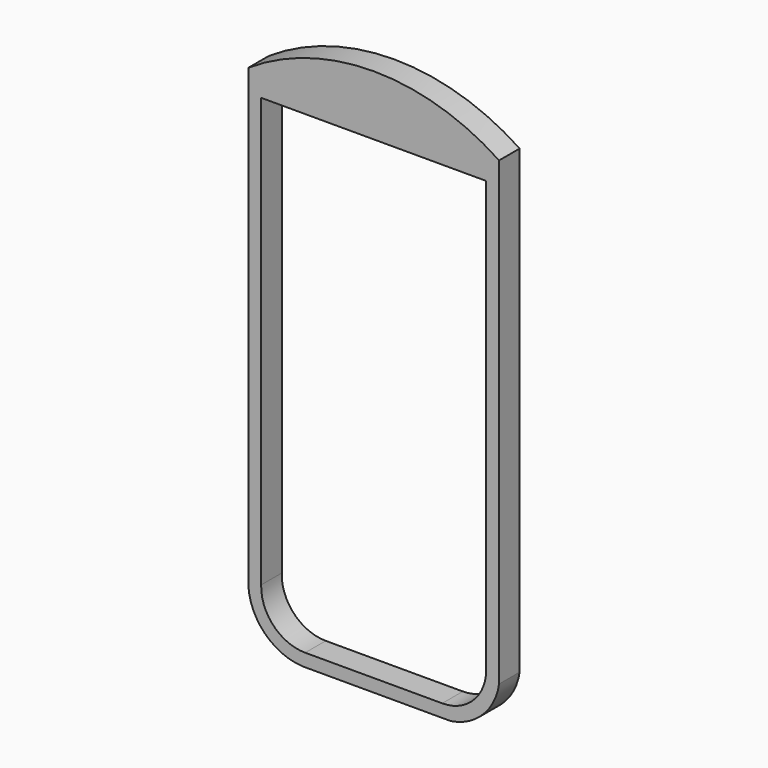
from build123d import *

# Parameters (mm, degrees)
F1_DEPTH = 6


with BuildPart() as f1:
    # F0 (on Front) → F1 (new body)
    with BuildSketch(Plane.XZ):
        with BuildLine():
            Line((9.351167, -51.003552), (9.351167, 56.502457))
            ThreePointArc((9.351167, 56.502457), (-19.898833, 65.306304), (-49.148833, 56.502457))
            Line((-49.148833, 56.502457), (-49.148833, -49.707878))
            ThreePointArc((-49.148833, -49.707878), (-45.238904, -58.463514), (-36.452453, -62.303696))
            Line((-36.452453, -62.303696), (-1.948976, -62.303696))
            ThreePointArc((-1.948976, -62.303696), (5.567295, -58.519823), (9.351167, -51.003552))
        make_face()
        with BuildLine():
            Line((-3.918833, -59.303696), (-35.886179, -59.303696))
            ThreePointArc((-35.886179, -59.303696), (-43.257989, -56.183115), (-46.148833, -48.718221))
            Line((-46.148833, -48.718221), (-46.148833, 51.306304))
            Line((-46.148833, 51.306304), (6.351167, 51.306304))
            Line((6.351167, 51.306304), (6.351167, -49.033696))
            ThreePointArc((6.351167, -49.033696), (3.343154, -56.295682), (-3.918833, -59.303696))
        make_face(mode=Mode.SUBTRACT)
    extrude(amount=F1_DEPTH)


solid = f1.part
